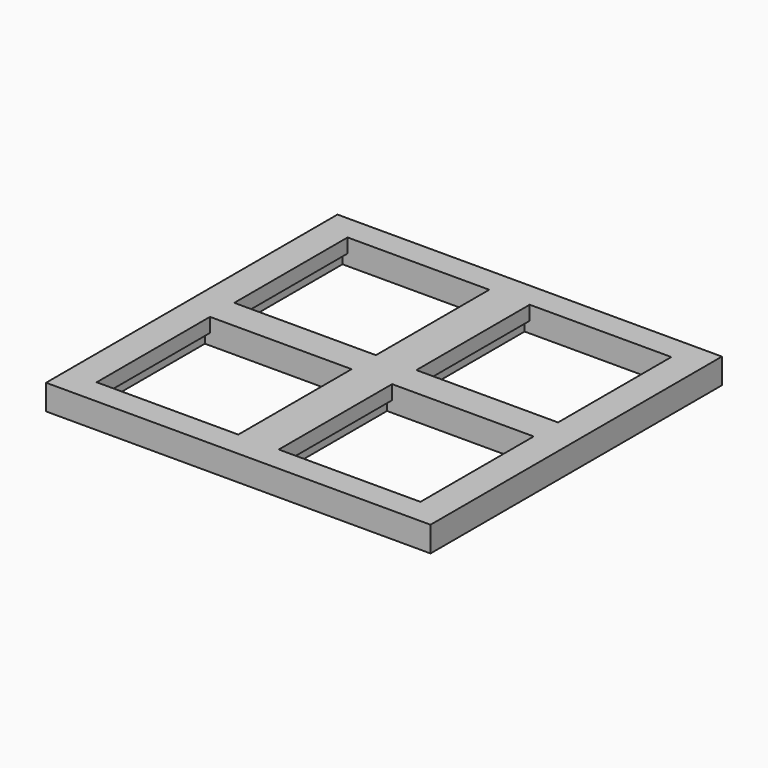
from build123d import *

# Parameters (mm, degrees)
SKETCH_W        = 38
SKETCH_H        = 36
PAD_DEPTH       = 2.5
SKETCH001_W     = 14
SKETCH001_H     = 14
POCKET_DEPTH    = 1.4
SKETCH002_W     = 15
SKETCH002_H     = 14
POCKET001_DEPTH = 1.1


with BuildPart() as part:
    # Sketch → Pad (new body)
    with BuildSketch(Plane.XY):
        Rectangle(SKETCH_W, SKETCH_H)
    extrude(amount=PAD_DEPTH)

    # Sketch001 (on DatumPlane) → Pocket (cut)
    with BuildSketch(Plane.XY.offset(2.5)):
        with Locations((-9, 8.5)):
            Rectangle(SKETCH001_W, SKETCH001_H)
        with Locations((9, 8.5)):
            Rectangle(SKETCH001_W, SKETCH001_H)
        with Locations((9, -8.5)):
            Rectangle(SKETCH001_W, SKETCH001_H)
        with Locations((-9, -8.5)):
            Rectangle(SKETCH001_W, SKETCH001_H)
    extrude(amount=-POCKET_DEPTH, mode=Mode.SUBTRACT)

    # Sketch002 → Pocket001 (cut)
    with BuildSketch(Plane.XY):
        with Locations((9, -8.5)):
            Rectangle(SKETCH002_W, SKETCH002_H)
        with Locations((9, 8.5)):
            Rectangle(SKETCH002_W, SKETCH002_H)
        with Locations((-9, 8.5)):
            Rectangle(SKETCH002_W, SKETCH002_H)
        with Locations((-9, -8.5)):
            Rectangle(SKETCH002_W, SKETCH002_H)
    extrude(amount=POCKET001_DEPTH, mode=Mode.SUBTRACT)


solid = part.part
